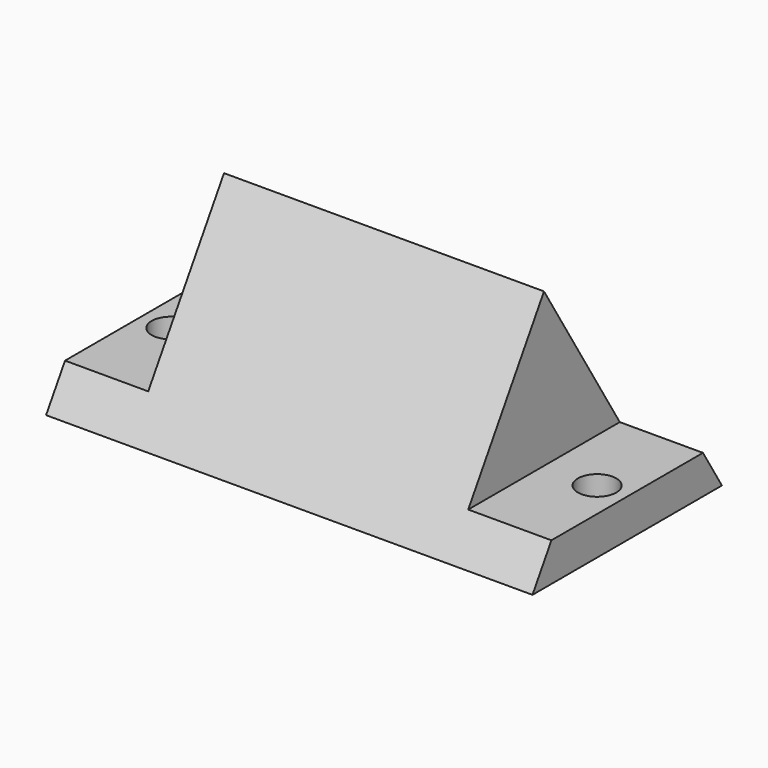
from build123d import *

# Parameters (mm, degrees)
F0_W          = 38
F0_H          = 18.5
F0_R          = 1.5
F1_DEPTH      = 15
F3_DEPTH      = 38.001
F4_W          = 16.5
F4_H          = 12
F5_DEPTH      = 25
F5_DEPTH_BACK = 25


with BuildPart() as f1:
    # F0 (on Top) → F1 (new body)
    with BuildSketch(Plane.XY):
        Rectangle(F0_W, F0_H)
        with Locations((-16.65, 0)):
            Circle(F0_R, mode=Mode.SUBTRACT)
        with Locations((16.65, 0)):
            Circle(F0_R, mode=Mode.SUBTRACT)
    extrude(amount=F1_DEPTH)

    # F2 (on face) → F3 (cut, through all)
    with BuildSketch(Plane.YZ.offset(19)):
        Polygon((-9.25, 15), (-9.25, 0), (0, 15), align=None)
        Polygon((9.25, 15), (0, 15), (9.25, 0), align=None)
    extrude(amount=-F3_DEPTH, mode=Mode.SUBTRACT)

    # F4 (on Front) → F5 (cut, two sides)
    with BuildSketch(Plane.XZ) as f5_sk:
        with Locations((-20.75, 9)):
            Rectangle(F4_W, F4_H)
        with Locations((20.75, 9)):
            Rectangle(F4_W, F4_H)
    extrude(amount=F5_DEPTH, mode=Mode.SUBTRACT)
    extrude(f5_sk.sketch, amount=-F5_DEPTH_BACK, mode=Mode.SUBTRACT)


solid = f1.part
